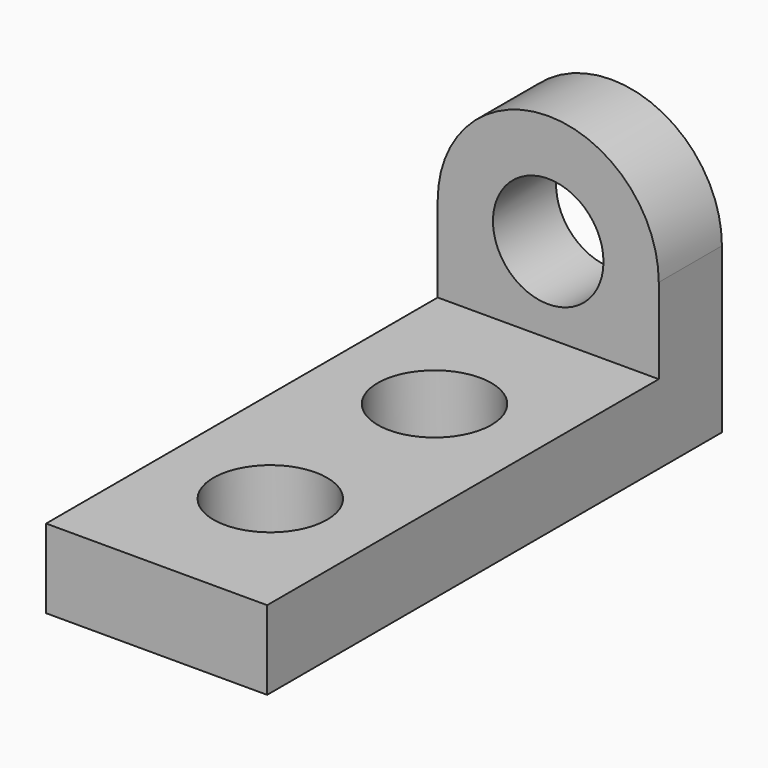
from build123d import *

# Parameters (mm, degrees)
F0_W     = 70
F0_H     = 52
F1_DEPTH = 180
F2_W     = 70
F2_H     = 155
F3_DEPTH = 27
F5_DEPTH = 25
F6_R     = 17.5
F7_DEPTH = 25
F8_R     = 18
F9_DEPTH = 87.001


with BuildPart() as f1:
    # F0 (on Front) → F1 (new body)
    with BuildSketch(Plane.XZ):
        with Locations((-5.444441, 26)):
            Rectangle(F0_W, F0_H)
    extrude(amount=F1_DEPTH)

    # F2 (on face) → F3 (cut)
    with BuildSketch(Plane.XY.offset(52)):
        with Locations((-5.444441, -102.5)):
            Rectangle(F2_W, F2_H)
    extrude(amount=-F3_DEPTH, mode=Mode.SUBTRACT)

    # F4 (on face) → F5 (join)
    with BuildSketch(Plane(origin=(0, 0, 0), x_dir=(-1, 0, 0), z_dir=(0, 1, 0))):
        with BuildLine():
            Line((-29.555559, 52), (40.444441, 52))
            ThreePointArc((40.444441, 52), (5.444441, 87), (-29.555559, 52))
        make_face()
    extrude(amount=-F5_DEPTH)

    # F6 (on Front) → F7 (cut)
    with BuildSketch(Plane.XZ):
        with Locations((-5.444441, 52)):
            Circle(F6_R)
    extrude(amount=F7_DEPTH, mode=Mode.SUBTRACT)

    # F8 (on Top) → F9 (cut, through all)
    with BuildSketch(Plane.XY):
        with Locations((-5.444441, -70)):
            Circle(F8_R)
        with Locations((-5.444441, -135)):
            Circle(F8_R)
    extrude(amount=F9_DEPTH, mode=Mode.SUBTRACT)


solid = f1.part
